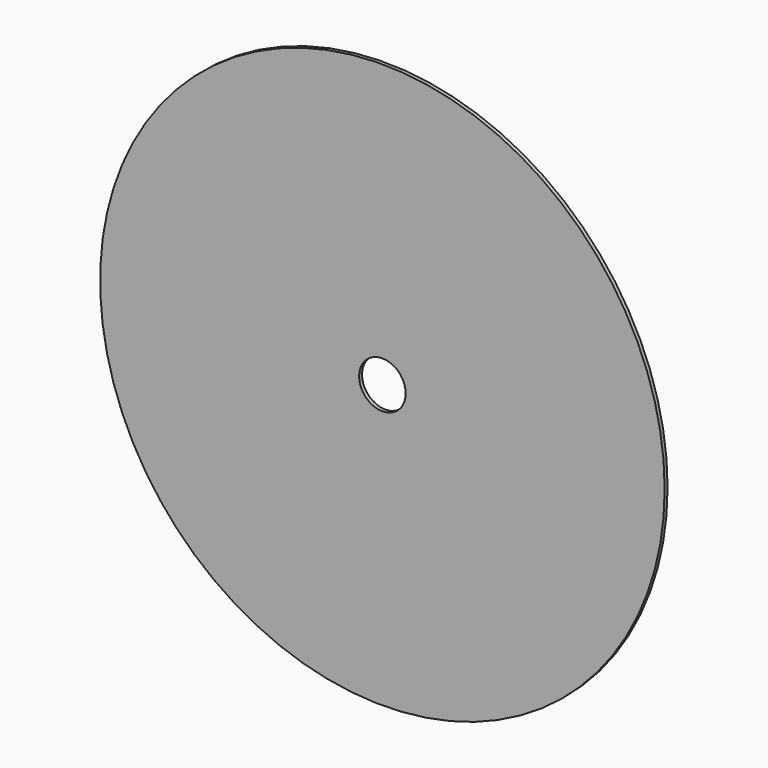
from build123d import *

# Parameters (mm, degrees)
SKETCH_R   = 77
SKETCH_R_2 = 6.35
PAD_DEPTH  = 1


with BuildPart() as part:
    # Sketch → Pad (new body)
    with BuildSketch(Plane.XZ):
        Circle(SKETCH_R)
        Circle(SKETCH_R_2, mode=Mode.SUBTRACT)
    extrude(amount=PAD_DEPTH)


solid = part.part
